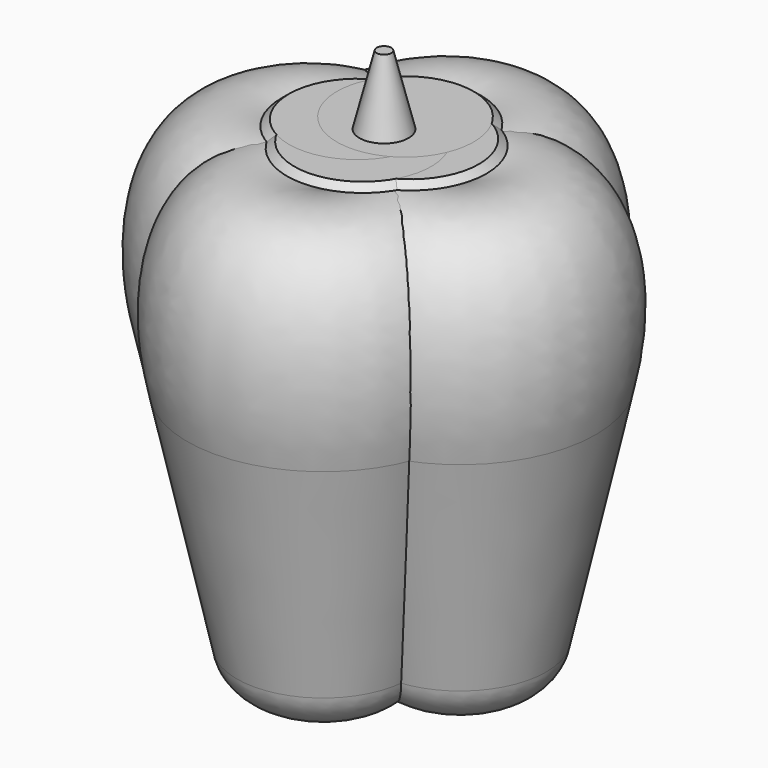
from build123d import *

# Parameters (mm, degrees)
F8_COUNT = 4
F9_COUNT = 4


with BuildPart() as f4:
    # F0 (on Front) → F4 (revolve)
    with BuildSketch(Plane.XZ):
        with BuildLine():
            Line((14.1012823645, -13.8493037157), (18.4104978494, 5.6955624792))
            add(Edge.make_bspline(
                [(18.4104978494, 5.6955624792), (24.6324576372, 31.0235243226), (6.6039985977, 21.1126941367)],
                knots=[5.0169329704, 5.0169329704, 5.0169329704, 6.940094635, 6.940094635, 6.940094635], degree=2, weights=[1, 0.5722242655, 1]))
            Line((6.6039985977, 21.1126941367), (6.6039985977, -17.5042934716))
            add(Edge.make_bspline(
                [(6.6039985977, -17.5042934716), (13.2480633293, -18.7203901044), (14.1012823645, -13.8493037157)],
                knots=[4.989444068, 4.989444068, 4.989444068, 6.4314665564, 6.4314665564, 6.4314665564], degree=2, weights=[1, 0.7511385459, 1]))
        make_face()
    revolve(axis=Axis((6.6039985977, 0, 1.8042003326), (0, 0, -1)))


with BuildPart() as f5:
    # F2 (on Front) → F5 (revolve)
    with BuildSketch(Plane.XZ):
        Polygon((2.2827594075, 23.2465309161), (2.2827594075, 22.7189152525), (8.8667394593, 22.7189152525), (8.2258218899, 23.2465309161), align=None)
    revolve(axis=Axis((2.2827594075, 0, 22.9827230843), (0, 0, -1)))


with BuildPart() as f5_1:
    # F6: moved
    add(f5.part.moved(Location((0.0254, 0, -0.1778))))


with BuildPart() as f7:
    # F3 (on Front) → F7 (revolve)
    with BuildSketch(Plane.XZ):
        Polygon((0.6328177406, 29.8899225891), (0, 29.8899225891), (0, 23.5972702503), (2.2059807088, 23.5972702503), align=None)
    revolve(axis=Axis((0, 0, 26.7435964197), (0, 0, 1)))


with BuildPart() as f8_1:
    # F8: instance of F4
    add(f4.part.rotate(Axis((0, 0, -0.8271224797), (0, 0, -1)), 1 * 360 / F8_COUNT))


with BuildPart() as f8_2:
    # F8: instance of F4
    add(f4.part.rotate(Axis((0, 0, -0.8271224797), (0, 0, -1)), 2 * 360 / F8_COUNT))


with BuildPart() as f8_3:
    # F8: instance of F4
    add(f4.part.rotate(Axis((0, 0, -0.8271224797), (0, 0, -1)), 3 * 360 / F8_COUNT))


with BuildPart() as f9_1:
    # F9: instance of F5
    add(f5_1.part.rotate(Axis((0, 0, -0.8271224797), (0, 0, -1)), 1 * 360 / F9_COUNT))


with BuildPart() as f9_2:
    # F9: instance of F5
    add(f5_1.part.rotate(Axis((0, 0, -0.8271224797), (0, 0, -1)), 2 * 360 / F9_COUNT))


with BuildPart() as f9_3:
    # F9: instance of F5
    add(f5_1.part.rotate(Axis((0, 0, -0.8271224797), (0, 0, -1)), 3 * 360 / F9_COUNT))


with BuildPart() as f7_1:
    # F10: moved
    add(f7.part.moved(Location((0, 0, -0.8128))))


solid = Compound([f4.part, f5_1.part, f8_1.part, f8_2.part, f8_3.part, f9_1.part, f9_2.part, f9_3.part, f7_1.part])
